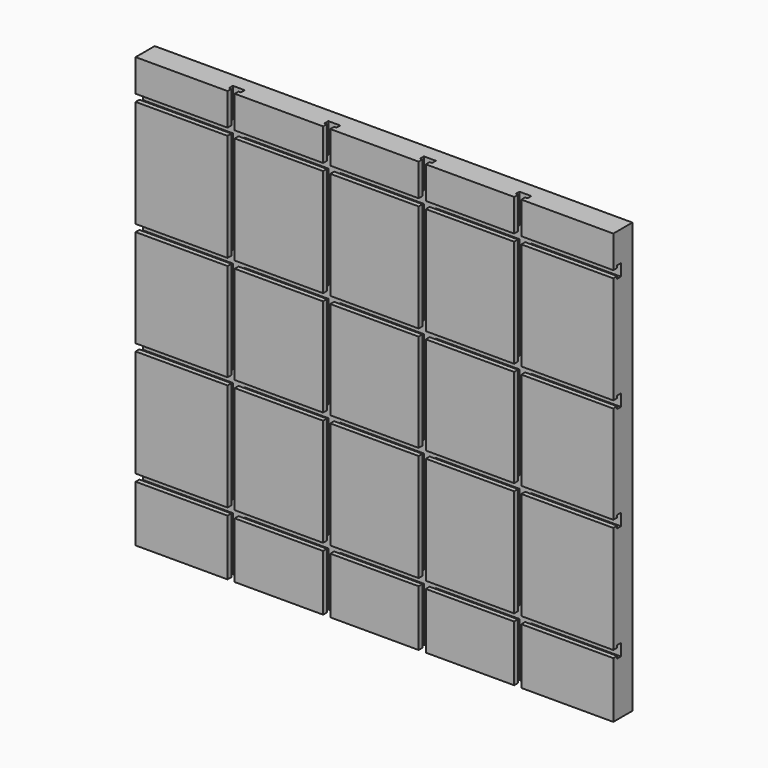
from build123d import *

# Parameters (mm, degrees)
F0_W     = 1000
F0_H     = 900
F1_DEPTH = 50
F3_DEPTH = 1016
F5_DEPTH = 908


with BuildPart() as f1:
    # F0 (on Front) → F1 (new body)
    with BuildSketch(Plane.XZ):
        Rectangle(F0_W, F0_H)
    extrude(amount=F1_DEPTH)

    # F2 (on face) → F3 (cut)
    with BuildSketch(Plane(origin=(-500, 0, 0), x_dir=(0, -1, 0), z_dir=(-1, 0, 0))):
        Polygon((50, -332.5), (50, -317.5), (40, -317.5), (40, -312.5), (30, -312.5), (30, -337.5), (40, -337.5), (40, -332.5), align=None)
        Polygon((40, -92.5), (50, -92.5), (50, -77.5), (40, -77.5), (40, -72.5), (30, -72.5), (30, -97.5), (40, -97.5), align=None)
        Polygon((40, 127.5), (50, 127.5), (50, 142.5), (40, 142.5), (40, 147.5), (30, 147.5), (30, 122.5), (40, 122.5), align=None)
        Polygon((40, 367.5), (50, 367.5), (50, 382.5), (40, 382.5), (40, 387.5), (30, 387.5), (30, 362.5), (40, 362.5), align=None)
    extrude(amount=-F3_DEPTH, mode=Mode.SUBTRACT)

    # F4 (on face) → F5 (cut)
    with BuildSketch(Plane.XY.offset(450)):
        Polygon((292.5, -50), (307.5, -50), (307.5, -40), (312.5, -40), (312.5, -30), (287.5, -30), (287.5, -40), (292.5, -40), align=None)
        Polygon((92.5, -40), (92.5, -50), (107.5, -50), (107.5, -40), (112.5, -40), (112.5, -30), (87.5, -30), (87.5, -40), align=None)
        Polygon((-107.5, -40), (-107.5, -50), (-92.5, -50), (-92.5, -40), (-87.5, -40), (-87.5, -30), (-112.5, -30), (-112.5, -40), align=None)
        Polygon((-307.5, -40), (-307.5, -50), (-292.5, -50), (-292.5, -40), (-287.5, -40), (-287.5, -30), (-312.5, -30), (-312.5, -40), align=None)
    extrude(amount=-F5_DEPTH, mode=Mode.SUBTRACT)


solid = f1.part
